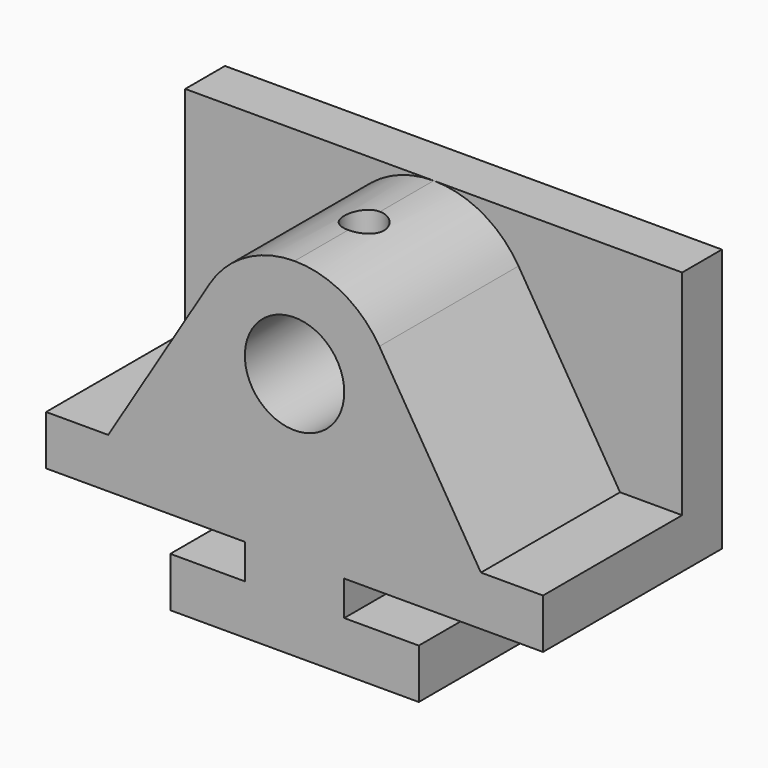
from build123d import *

# Parameters (mm, degrees)
F0_W     = 127
F0_H     = 88.9
F1_DEPTH = 57.15
F2_R     = 12.7
F3_DEPTH = 57.151
F5_DEPTH = 44.45
F6_R     = 5.08
F7_DEPTH = 25.4


with BuildPart() as f1:
    # F0 (on Front) → F1 (new body)
    with BuildSketch(Plane.XZ):
        with Locations((63.5, 44.45)):
            Rectangle(F0_W, F0_H)
    extrude(amount=F1_DEPTH)

    # F2 (on face) → F3 (cut, through all)
    with BuildSketch(Plane.XZ.offset(57.15)):
        with Locations((63.5, 63.5)):
            Circle(F2_R)
        Polygon((127, 0), (127, 21.59), (76.2, 21.59), (76.2, 12.7), (95.25, 12.7), (95.25, 0), align=None)
        Polygon((50.8, 21.59), (0, 21.59), (0, 0), (31.75, 0), (31.75, 12.7), (50.8, 12.7), align=None)
    extrude(amount=-F3_DEPTH, mode=Mode.SUBTRACT)

    # F4 (on face) → F5 (cut)
    with BuildSketch(Plane.XZ.offset(57.15)):
        with BuildLine():
            Line((15.875, 34.29), (41.828237, 76.74744))
            ThreePointArc((41.828237, 76.74744), (51.076735, 85.654514), (63.5, 88.9))
            Line((63.5, 88.9), (0, 88.9))
            Line((0, 88.9), (0, 34.29))
            Line((0, 34.29), (15.875, 34.29))
        make_face()
        with BuildLine():
            ThreePointArc((63.5, 88.9), (75.923265, 85.654514), (85.171763, 76.74744))
            Line((85.171763, 76.74744), (111.125, 34.29))
            Line((111.125, 34.29), (127, 34.29))
            Line((127, 34.29), (127, 88.9))
            Line((127, 88.9), (63.5, 88.9))
        make_face()
    extrude(amount=-F5_DEPTH, mode=Mode.SUBTRACT)

    # F6 (on face) → F7 (cut)
    with BuildSketch(Plane.XY.offset(88.9)):
        with Locations((63.5, -34.925)):
            Circle(F6_R)
    extrude(amount=-F7_DEPTH, mode=Mode.SUBTRACT)


solid = f1.part
